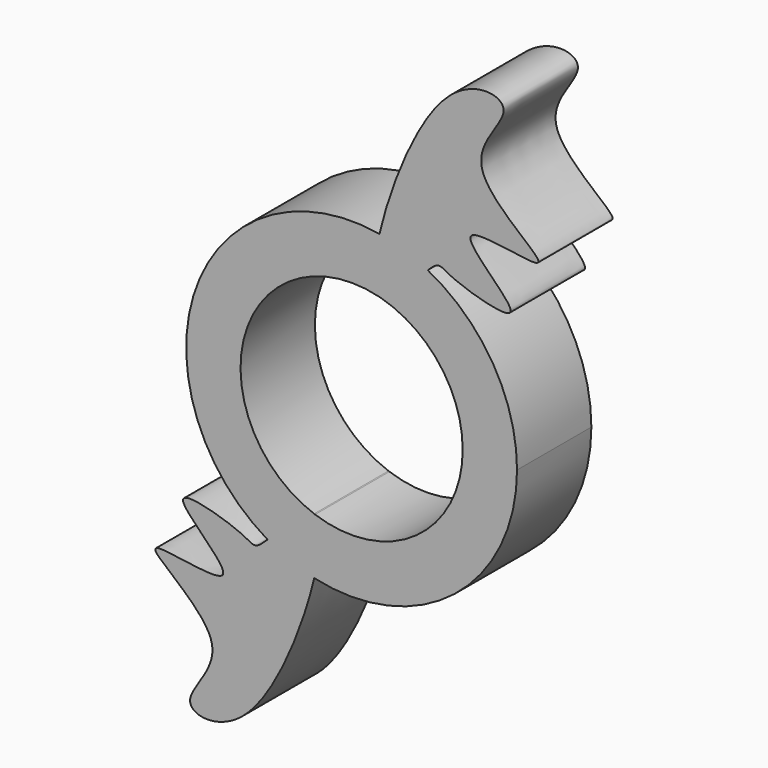
from build123d import *

# Parameters (mm, degrees)
F1_DEPTH = 8.5


with BuildPart() as f1:
    # F0 (on Front) → F1 (new body)
    with BuildSketch(Plane.XZ):
        with BuildLine():
            add(Edge.make_bspline(
                [(-43.0150162544, 18.9722470028), (-42.805522927, 19.1736973767), (-41.9309694047, 19.9512274897), (-41.4200461701, 19.0637429664), (-31.415586762, 16.089756605), (-43.6820320668, 25.226810169), (-27.8019778135, 20.8269649449), (-41.7186019649, 28.5687962424), (-33.4670254703, 34.8690385706), (-38.7233685194, 35.6866365821), (-41.0279221585, 33.6585175246)],
                knots=[0.2879252231, 0.2879252231, 0.2879252231, 0.2879252231, 0.3029072143, 0.3578276435, 0.4607863704, 0.5680444588, 0.6760055185, 0.7975131917, 0.9026676312, 1, 1, 1, 1], degree=3))
            add(Edge.make_bspline(
                [(-41.0279221585, 33.6585175246), (-43.8766135961, 31.1515307939), (-46.3859539702, 24.9451159167), (-47.4271582544, 20.4516721607)],
                knots=[0, 0, 0, 0, 0.1203139214, 0.1203139214, 0.1203139214, 0.1203139214], degree=3))
            ThreePointArc((-47.4271582544, 20.4516721607), (-45.1638657439, 19.8826133173), (-43.0150162544, 18.9722470028))
        make_face()
        with BuildLine():
            ThreePointArc((-43.0150162544, 18.9722470028), (-45.1638657439, 19.8826133173), (-47.4271582544, 20.4516721607))
            add(Edge.make_bspline(
                [(-47.4271582544, 20.4516721607), (-48.047640677, 17.7739047813), (-48.1467442758, 15.7044644327), (-47.4855824177, 15.388786081)],
                knots=[0.1203139214, 0.1203139214, 0.1203139214, 0.1203139214, 0.192012314, 0.192012314, 0.192012314, 0.192012314], degree=3))
            ThreePointArc((-47.4855824177, 15.388786081), (-47.4045961571, 15.3679755261), (-47.3237839098, 15.3464991607))
            add(Edge.make_bspline(
                [(-47.3237839098, 15.3464991607), (-46.351379064, 15.2676022478), (-44.2807121663, 17.7551442053), (-43.0150162544, 18.9722470028)],
                knots=[0.1974085213, 0.1974085213, 0.1974085213, 0.1974085213, 0.2879252231, 0.2879252231, 0.2879252231, 0.2879252231], degree=3))
        make_face()
        with BuildLine():
            add(Edge.make_bspline(
                [(-47.4271582544, 20.4516721607), (-48.047640677, 17.7739047813), (-48.1467442758, 15.7044644327), (-47.4855824177, 15.388786081)],
                knots=[0.1203139214, 0.1203139214, 0.1203139214, 0.1203139214, 0.192012314, 0.192012314, 0.192012314, 0.192012314], degree=3))
            ThreePointArc((-47.4271582544, 20.4516721607), (-64.1804841774, 10.7404959293), (-57.6601869175, -7.4931706499))
            add(Edge.make_bspline(
                [(-53.4007161618, -4.0264175405), (-54.3078499587, -3.8097303097), (-56.3457460319, -6.2024303447), (-57.6601869175, -7.4931706499)],
                knots=[0.1950298427, 0.1950298427, 0.1950298427, 0.1950298427, 0.284627778, 0.284627778, 0.284627778, 0.284627778], degree=3))
            ThreePointArc((-53.4007161618, -4.0264175405), (-59.6926215848, 8.4991750961), (-47.4855824177, 15.388786081))
        make_face()
        with BuildLine():
            ThreePointArc((-34.8443040531, 5.5381515995), (-37.0473840753, 13.4000129755), (-43.0150162544, 18.9722470028))
            add(Edge.make_bspline(
                [(-47.3237839098, 15.3464991607), (-46.351379064, 15.2676022478), (-44.2807121663, 17.7551442053), (-43.0150162544, 18.9722470028)],
                knots=[0.1974085213, 0.1974085213, 0.1974085213, 0.1974085213, 0.2879252231, 0.2879252231, 0.2879252231, 0.2879252231], degree=3))
            ThreePointArc((-47.3237839098, 15.3464991607), (-41.9068133747, 11.7148301357), (-39.8136741185, 5.5381515995))
            ThreePointArc((-39.8136741185, 5.5381515995), (-44.0870968499, -2.7427787867), (-53.3124552327, -4.0575839467))
            add(Edge.make_bspline(
                [(-53.3935090429, -9.199642254), (-52.7530497955, -6.4854670009), (-52.6432481378, -4.3789676135), (-53.3124552327, -4.0575839467)],
                knots=[0.1196098764, 0.1196098764, 0.1196098764, 0.1196098764, 0.1919933341, 0.1919933341, 0.1919933341, 0.1919933341], degree=3))
            ThreePointArc((-53.3935090429, -9.199642254), (-40.5620353015, -6.3074760055), (-34.8443040531, 5.5381515995))
        make_face()
        with BuildLine():
            add(Edge.make_bspline(
                [(-53.4007161618, -4.0264175405), (-54.3078499587, -3.8097303097), (-56.3457460319, -6.2024303447), (-57.6601869175, -7.4931706499)],
                knots=[0.1950298427, 0.1950298427, 0.1950298427, 0.1950298427, 0.284627778, 0.284627778, 0.284627778, 0.284627778], degree=3))
            ThreePointArc((-57.6601869175, -7.4931706499), (-55.592014734, -8.5093423872), (-53.3935090429, -9.199642254))
            add(Edge.make_bspline(
                [(-53.3935090429, -9.199642254), (-52.7530497955, -6.4854670009), (-52.6432481378, -4.3789676135), (-53.3124552327, -4.0575839467)],
                knots=[0.1196098764, 0.1196098764, 0.1196098764, 0.1196098764, 0.1919933341, 0.1919933341, 0.1919933341, 0.1919933341], degree=3))
            ThreePointArc((-53.3124552327, -4.0575839467), (-53.3566215887, -4.0421023854), (-53.4007161618, -4.0264175405))
        make_face()
        with BuildLine():
            ThreePointArc((-53.3935090429, -9.199642254), (-55.592014734, -8.5093423872), (-57.6601869175, -7.4931706499))
            add(Edge.make_bspline(
                [(-57.6601869175, -7.4931706499), (-57.9297015479, -7.7578256832), (-58.8834871125, -8.6287474792), (-59.401570641, -7.7260357656), (-69.4076526347, -4.7508092953), (-57.1407055448, -13.8882539875), (-73.0207720186, -9.4883671828), (-59.1046581838, -17.2299380032), (-67.3544400908, -23.5311299199), (-62.1021767649, -24.3465640221), (-59.7949028015, -22.3198881686)],
                knots=[0.284627778, 0.284627778, 0.284627778, 0.284627778, 0.3029990526, 0.3579122462, 0.4608574089, 0.5681013666, 0.676048203, 0.7975398683, 0.9026804543, 1, 1, 1, 1], degree=3))
            add(Edge.make_bspline(
                [(-59.7949028015, -22.3198881686), (-56.9591645997, -19.829017023), (-54.4518344385, -13.6846748457), (-53.3935090429, -9.199642254)],
                knots=[0, 0, 0, 0, 0.1196098764, 0.1196098764, 0.1196098764, 0.1196098764], degree=3))
        make_face()
    extrude(amount=F1_DEPTH)


solid = f1.part
